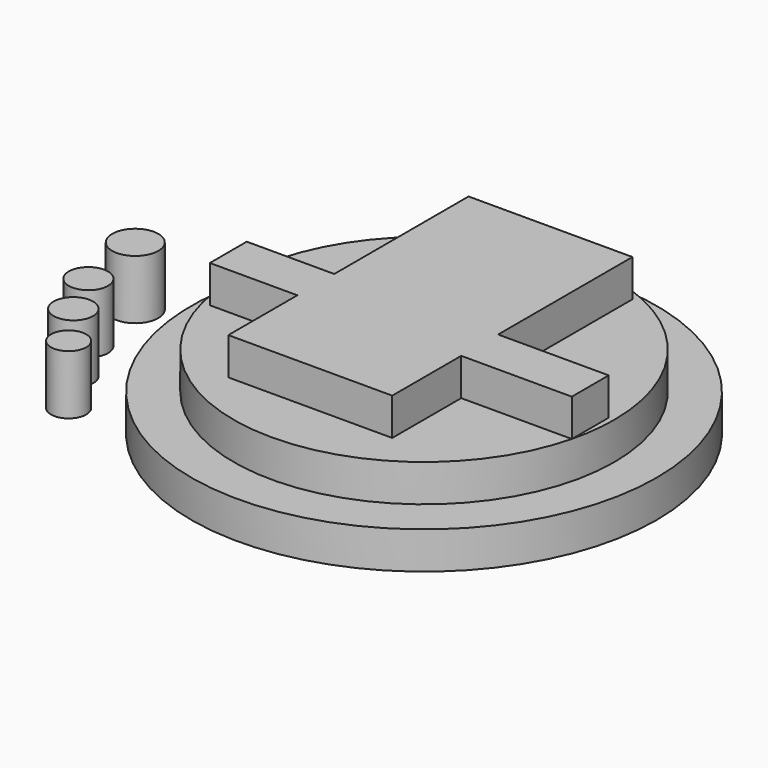
from build123d import *

# Parameters (mm, degrees)
F0_R     = 158.6355563787
F0_R_2   = 129.8072251159
F1_DEPTH = 25.4
F0_R_3   = 19.131486476
F3_R     = 15.7254746823
F4_DEPTH = 40.386
F3_R_2   = 13.3649222473
F3_R_3   = 13.4506528885
F3_R_4   = 12.002730361
F5_W     = 94.1363926977
F5_H     = 13.7223405764
F5_W_2   = 24.9571446329
F5_H_2   = 65.5404450372
F5_W_3   = 19.3717125803
F5_H_3   = 56.289691478
F2_R     = 129.8072251159
F6_DEPTH = 25.4
F7_W     = 59.6462831741
F7_H     = 31.4583579175
F7_W_2   = 111.743490314
F7_H_2   = 114.4651549493
F7_W_3   = 75.4121465458
F7_H_3   = 58.7993165381
F8_DEPTH = 25.4


with BuildPart() as f1:
    # F0 (on Top) → F1 (new body)
    with BuildSketch(Plane.XY):
        Circle(F0_R)
        Circle(F0_R_2, mode=Mode.SUBTRACT)
    extrude(amount=F1_DEPTH)



with BuildPart() as f1b:
    # F0 (on Top) → F1, piece 2 (new body)
    with BuildSketch(Plane.XY):
        with Locations((0, 1.392852515)):
            Circle(F0_R_3)
    extrude(amount=F1_DEPTH)


with BuildPart() as f4:
    # F3 (on face) → F4 (new body)
    with BuildSketch(Plane(origin=(0, 0, 0), x_dir=(1, 0, 0), z_dir=(0, 0, -1))):
        with Locations((-209.7028940916, -16.021952033)):
            Circle(F3_R)
    extrude(amount=-F4_DEPTH)


with BuildPart() as f4b:
    # F3 (on face) → F4, piece 2 (new body)
    with BuildSketch(Plane(origin=(0, 0, 0), x_dir=(1, 0, 0), z_dir=(0, 0, -1))):
        with Locations((-203.0587345362, 32.2399027646)):
            Circle(F3_R_2)
    extrude(amount=-F4_DEPTH)


with BuildPart() as f4c:
    # F3 (on face) → F4, piece 3 (new body)
    with BuildSketch(Plane(origin=(0, 0, 0), x_dir=(1, 0, 0), z_dir=(0, 0, -1))):
        with Locations((-187.6213252544, 64.3467605114)):
            Circle(F3_R_3)
    extrude(amount=-F4_DEPTH)


with BuildPart() as f4d:
    # F3 (on face) → F4, piece 4 (new body)
    with BuildSketch(Plane(origin=(0, 0, 0), x_dir=(1, 0, 0), z_dir=(0, 0, -1))):
        with Locations((-166.507422924, 94.7768241167)):
            Circle(F3_R_4)
    extrude(amount=-F4_DEPTH)


with BuildPart() as f1_1:
    add(f1.part)

    add(f1b.part)  # F6 merges F1b
    # F5 (on face) + F2 (on face) → F6 (join)
    with BuildSketch(Plane.XY.offset(25.4)):
        with Locations((72.0253409818, -6.8611702882)):
            Rectangle(F5_W, F5_H)
        with Locations((12.4785723165, -46.4925630949)):
            Rectangle(F5_W_2, F5_H_2)
        with Locations((-9.6858562902, 46.871772036)):
            Rectangle(F5_W_3, F5_H_3)
    with BuildSketch(Plane.XY.offset(25.4)):
        Circle(F2_R)
    extrude(amount=F6_DEPTH)

    # F7 (on face) → F8 (join)
    with BuildSketch(Plane.XY.offset(50.8)):
        with Locations((-91.0411454317, -15.7291789588)):
            Rectangle(F7_W, F7_H)
        with Locations((-5.3462586877, 57.2325774747)):
            Rectangle(F7_W_2, F7_H_2)
        with Locations((-5.3462586877, -15.7291789588)):
            Rectangle(F7_W_2, F7_H)
        with Locations((88.2315597422, -15.7291789588)):
            Rectangle(F7_W_3, F7_H)
        with Locations((-5.3462586877, -60.8580161866)):
            Rectangle(F7_W_2, F7_H_3)
    extrude(amount=F8_DEPTH)


solid = Compound([f4.part, f4b.part, f4c.part, f4d.part, f1_1.part])
